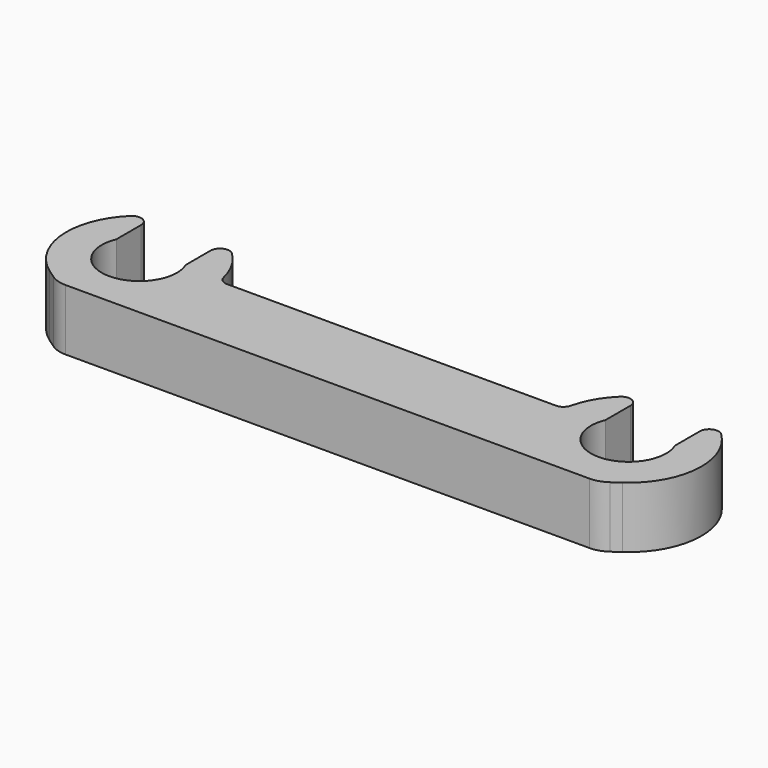
from build123d import *

# Parameters (mm, degrees)
F1_DEPTH = 13


with BuildPart() as f1:
    # F0 (on Top) → F1 (new body)
    with BuildSketch(Plane.XY):
        with BuildLine():
            ThreePointArc((-59.375, 12.713875), (-60.593264, 14.554769), (-62.763889, 14.152968))
            ThreePointArc((-62.763889, 14.152968), (-67.452399, 1.786181), (-60.890435, -9.696857))
            Line((-60.890435, -9.696857), (-59.150871, -10.914912))
            ThreePointArc((-59.150871, -10.914912), (-57.513647, -11.722302), (-55.709412, -12))
            Line((-55.709412, -12), (0, -12))
            Line((0, -12), (55.709412, -12))
            ThreePointArc((55.709412, -12), (57.513647, -11.722302), (59.150871, -10.914912))
            Line((59.150871, -10.914912), (60.890435, -9.696857))
            ThreePointArc((60.890435, -9.696857), (67.452399, 1.786181), (62.763889, 14.152968))
            ThreePointArc((62.763889, 14.152968), (60.593264, 14.554769), (59.375, 12.713875))
            Line((59.375, 12.713875), (59.375, 6.099899))
            ThreePointArc((59.375, 6.099899), (52, -5), (44.625, 6.099899))
            Line((44.625, 6.099899), (44.625, 12.713875))
            ThreePointArc((44.625, 12.713875), (43.406736, 14.554769), (41.236111, 14.152968))
            ThreePointArc((41.236111, 14.152968), (38.524835, 10.659629), (36.910329, 6.542857))
            ThreePointArc((36.910329, 6.542857), (36.205393, 5.432472), (34.963275, 5))
            Line((34.963275, 5), (0, 5))
            Line((0, 5), (-34.963275, 5))
            ThreePointArc((-34.963275, 5), (-36.205393, 5.432472), (-36.910329, 6.542857))
            ThreePointArc((-36.910329, 6.542857), (-38.524835, 10.659629), (-41.236111, 14.152968))
            ThreePointArc((-41.236111, 14.152968), (-43.406736, 14.554769), (-44.625, 12.713875))
            Line((-44.625, 12.713875), (-44.625, 6.099899))
            ThreePointArc((-44.625, 6.099899), (-52, -5), (-59.375, 6.099899))
            Line((-59.375, 6.099899), (-59.375, 12.713875))
        make_face()
    extrude(amount=F1_DEPTH)


solid = f1.part
